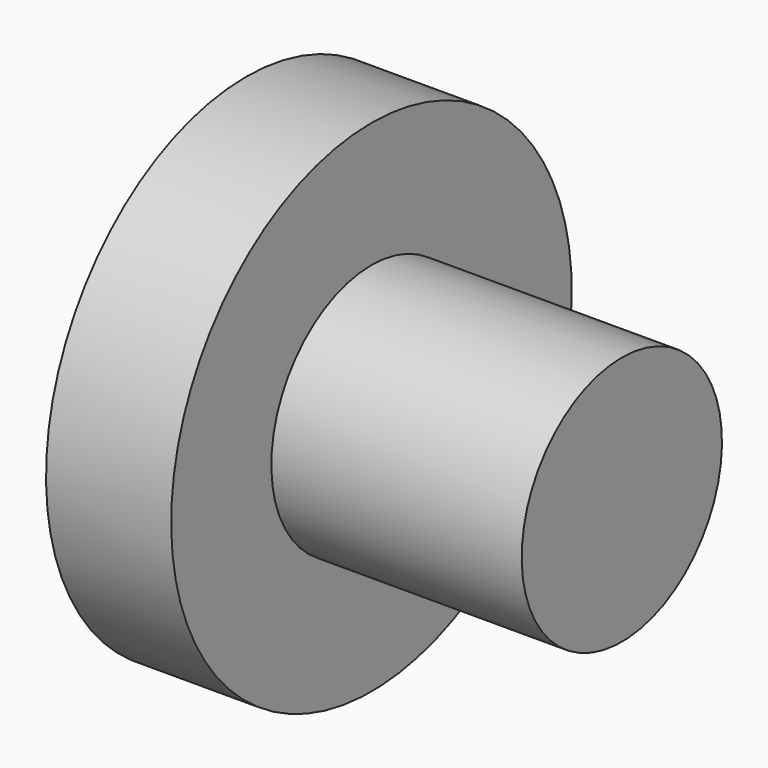
from build123d import *

# Parameters (mm, degrees)
F0_W = 50
F0_H = 25


with BuildPart() as f1:
    # F0 (on Front) → F1 (revolve)
    with BuildSketch(Plane.XZ):
        Polygon((0, 50), (0, 0), (25, 0), (25, 25), (25, 50), align=None)
        with Locations((50, 12.5)):
            Rectangle(F0_W, F0_H)
    revolve(axis=Axis((37.5, 0, 0), (1, 0, 0)))


solid = f1.part
